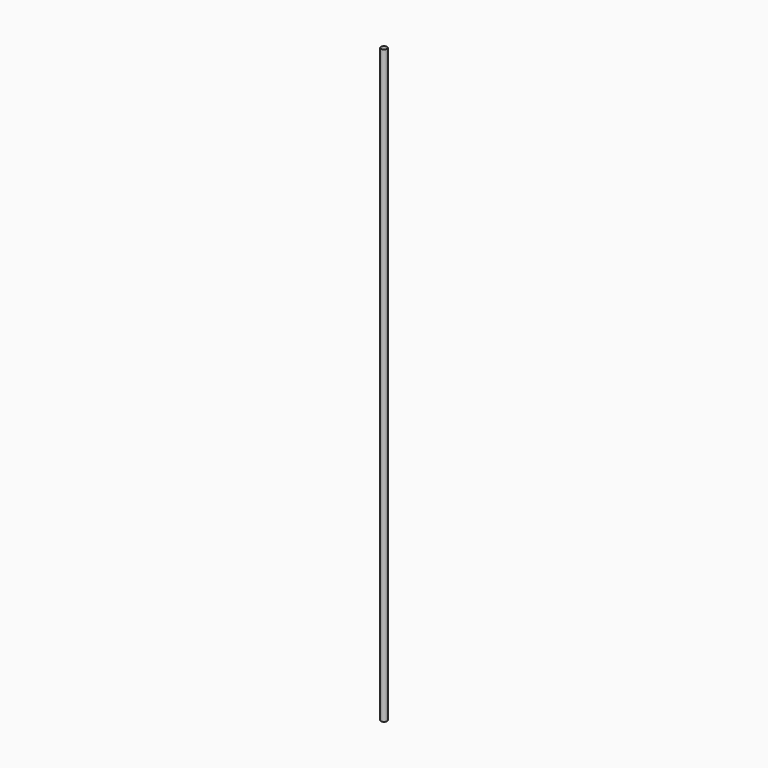
from build123d import *

# Parameters (mm, degrees)
SKETCH_R  = 2.5
PAD_DEPTH = 500


with BuildPart() as part:
    # Sketch → Pad (new body)
    with BuildSketch(Plane.XY):
        Circle(SKETCH_R)
    extrude(amount=PAD_DEPTH)


solid = part.part
